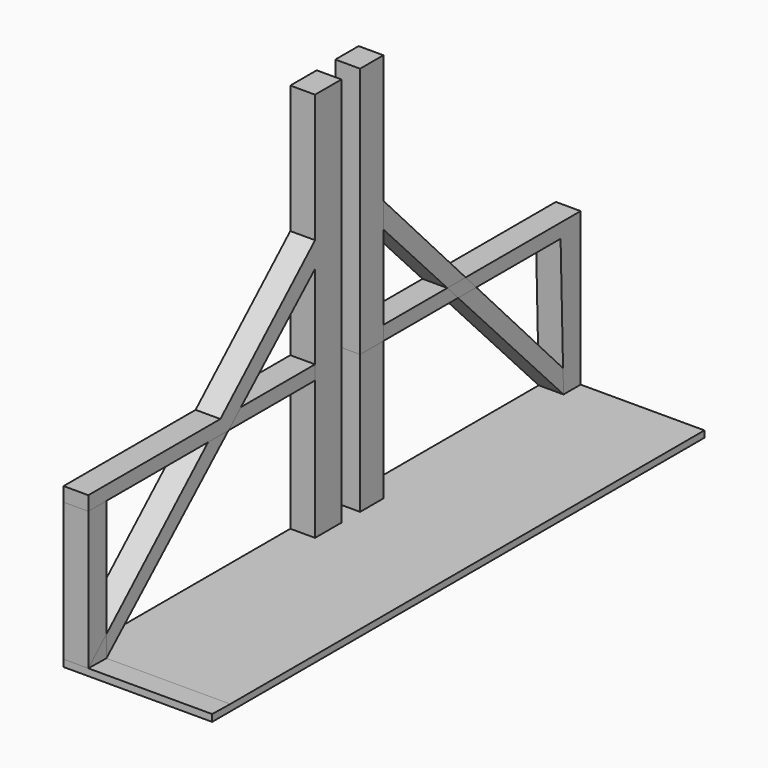
from build123d import *

# Parameters (mm, degrees)
F1_DEPTH = 12.7
F0_W     = 14.9319469929
F0_H     = 71.0706394166
F0_W_2   = 16.9228613377
F2_DEPTH = 12.7
F3_DEPTH = 12.7
F4_DEPTH = 12.7
F5_DEPTH = 76.2


with BuildPart() as f1:
    # F0 (on Right) → F1 (new body)
    with BuildSketch(Plane.YZ):
        Polygon((178.3947199583, -55.3829222918), (178.3947199583, 15.6877171248), (165.5580401421, 15.6877171248), (167.1266760885, -43.4050809947), align=None)
        Polygon((167.4446314573, -55.3829222918), (178.3947199583, -55.3829222918), (167.1266760885, -43.4050809947), align=None)
        Polygon((165.5580401421, 15.6877171248), (178.3947199583, 15.6877171248), (178.4024387598, 22.9618363082), (104.6926099554, 22.9618363082), (111.5356705738, 15.6877171248), align=None)
        Polygon((51.9709587097, 15.6877171248), (99.8692675307, 15.6877171248), (92.9528917235, 22.9618363082), (51.9709587097, 22.9618363082), align=None)
        Polygon((92.9528917235, 22.9618363082), (104.6926099554, 22.9618363082), (51.9709587097, 79.0045335889), (51.9709587097, 66.0635232925), align=None)
        Polygon((99.8692675307, 15.6877171248), (111.5356705738, 15.6877171248), (104.6926099554, 22.9618363082), (92.9528917235, 22.9618363082), align=None)
    extrude(amount=F1_DEPTH)


with BuildPart() as f1b:
    # F0 (on Right) → F1, piece 2 (new body)
    with BuildSketch(Plane.YZ):
        with Locations((44.5049852133, -19.8476025835)):
            Rectangle(F0_W, F0_H)
    extrude(amount=F1_DEPTH)


with BuildPart() as f1c:
    # F0 (on Right) → F1, piece 3 (new body)
    with BuildSketch(Plane.YZ):
        with Locations((16.6320297867, -19.8476025835)):
            Rectangle(F0_W_2, F0_H)
        Polygon((8.1705991179, 15.6877171248), (25.0934604555, 15.6877171248), (25.0934604555, 144.7050720453), (8.1705991179, 144.7050720453), (8.1705991179, 79.0045335889), (8.1705991179, 66.0977810621), (8.1705991179, 22.9618363082), align=None)
        Polygon((8.1705991179, 79.0045335889), (-52.5257776907, 22.9618363082), (-39.315135823, 22.9618363082), (8.1705991179, 66.0977810621), align=None)
        Polygon((-60.4039259657, 15.6877171248), (-47.3227706956, 15.6877171248), (-39.315135823, 22.9618363082), (-52.5257776907, 22.9618363082), align=None)
        Polygon((-137.1677964926, 22.9618363082), (-137.1677964926, 15.6877171248), (-125.5601099881, 15.6877171248), (-60.4039259657, 15.6877171248), (-52.5257776907, 22.9618363082), align=None)
    extrude(amount=F1_DEPTH)


with BuildPart() as f2:
    # F0 (on Right) → F2 (new body)
    with BuildSketch(Plane.YZ):
        Polygon((51.9709587097, 66.0635232925), (51.9709587097, 79.0045335889), (51.9709587097, 144.7050720453), (37.0390117168, 144.7050720453), (37.0390117168, 15.6877171248), (51.9709587097, 15.6877171248), (51.9709587097, 22.9618363082), align=None)
    extrude(amount=F2_DEPTH)


with BuildPart() as f2b:
    # F0 (on Right) → F2, piece 2 (new body)
    with BuildSketch(Plane.YZ):
        Polygon((167.1266760885, -43.4050809947), (111.5356705738, 15.6877171248), (99.8692675307, 15.6877171248), (167.4446314573, -55.3829222918), align=None)
    extrude(amount=F2_DEPTH)


with BuildPart() as f2c:
    # F0 (on Right) → F2, piece 3 (new body)
    with BuildSketch(Plane.YZ):
        Polygon((-39.315135823, 22.9618363082), (-47.3227706956, 15.6877171248), (8.1705991179, 15.6877171248), (8.1705991179, 22.9618363082), align=None)
    extrude(amount=F2_DEPTH)


with BuildPart() as f2d:
    # F0 (on Right) → F2, piece 4 (new body)
    with BuildSketch(Plane.YZ):
        Polygon((-125.5601099881, -44.4728474613), (-125.5601099881, -55.3829222918), (-47.3227706956, 15.6877171248), (-60.4039259657, 15.6877171248), align=None)
    extrude(amount=F2_DEPTH)


with BuildPart() as f2e:
    # F0 (on Right) → F2, piece 5 (new body)
    with BuildSketch(Plane.YZ):
        Polygon((-137.1677964926, 15.6877171248), (-137.1677964926, -55.1905557513), (-125.5601099881, -44.4728474613), (-125.5601099881, 15.6877171248), align=None)
    extrude(amount=F2_DEPTH)


with BuildPart() as f3:
    # F0 (on Right) → F3 (new body)
    with BuildSketch(Plane.YZ):
        Polygon((99.8692675307, 15.6877171248), (111.5356705738, 15.6877171248), (104.6926099554, 22.9618363082), (92.9528917235, 22.9618363082), align=None)
    extrude(amount=F3_DEPTH)


with BuildPart() as f4:
    # F0 (on Right) → F4 (new body)
    with BuildSketch(Plane.YZ):
        Polygon((-125.5601099881, -44.4728474613), (-137.1677964926, -55.1905557513), (-125.5601099881, -55.3829222918), align=None)
    extrude(amount=F4_DEPTH)


with BuildPart() as f5:
    # F0 (on Right) → F5 (new body)
    with BuildSketch(Plane.YZ):
        Polygon((178.3947199583, -58.7369278073), (178.3947199583, -55.3829222918), (167.4446314573, -55.3829222918), (51.9709587097, -55.3829222918), (37.0390117168, -55.3829222918), (25.0934604555, -55.3829222918), (8.1705991179, -55.3829222918), (-125.5601099881, -55.3829222918), (-137.1677964926, -55.1905557513), (-137.1677964926, -58.7369278073), align=None)
    extrude(amount=F5_DEPTH)


solid = Compound([f1.part, f1b.part, f1c.part, f2.part, f2b.part, f2c.part, f2d.part, f2e.part, f3.part, f4.part, f5.part])
